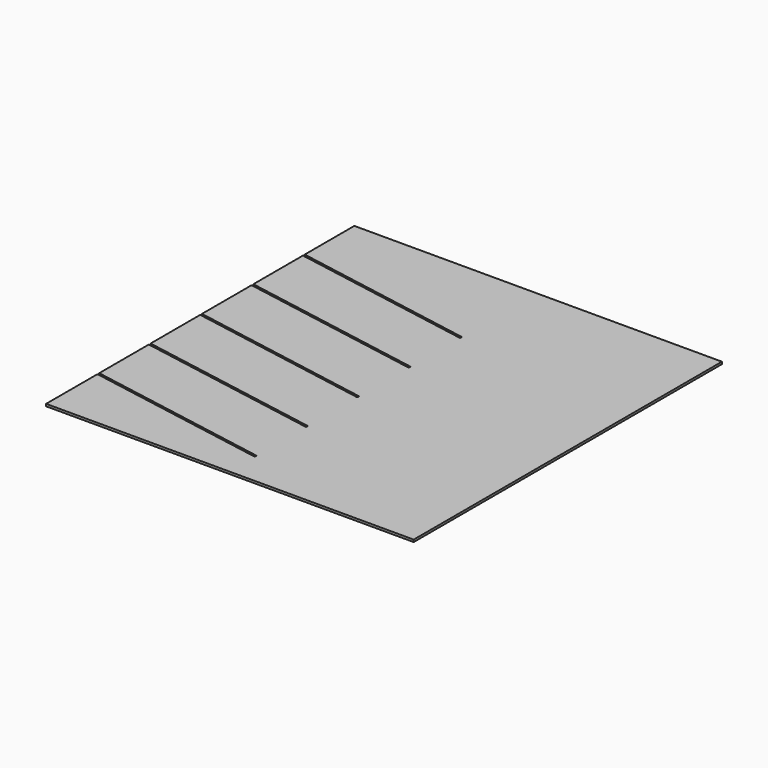
from build123d import *

# Parameters (mm, degrees)
F1_DEPTH = 6.35


with BuildPart() as f1:
    # F0 (on Top) → F1 (new body)
    with BuildSketch(Plane.XY):
        Polygon((85.162104, 1037.937944), (-968.937896, 1037.937944), (-968.937896, 1031.587944), (-968.937896, 865.466227), (-968.937896, 860.137944), (-443.641441, 767.514006), (-444.744107, 761.260477), (-968.937896, 853.689985), (-968.937896, 846.12235), (-968.937896, 681.316227), (-968.937896, 675.987944), (-443.641441, 583.364006), (-444.744107, 577.110477), (-968.937896, 669.539985), (-968.937896, 661.97235), (-968.937896, 497.166227), (-968.937896, 491.837944), (-443.641441, 399.214006), (-444.744107, 392.960477), (-968.937896, 485.389985), (-968.937896, 477.82235), (-968.937896, 313.016227), (-968.937896, 307.687944), (-443.641441, 215.064006), (-444.744107, 208.810477), (-968.937896, 301.239985), (-968.937896, 293.67235), (-968.937896, 123.537944), (-443.641441, 30.914006), (-444.744107, 24.660477), (-968.937896, 117.089985), (-968.937896, -66.962056), (85.162104, -66.962056), align=None)
    extrude(amount=F1_DEPTH)


solid = f1.part
